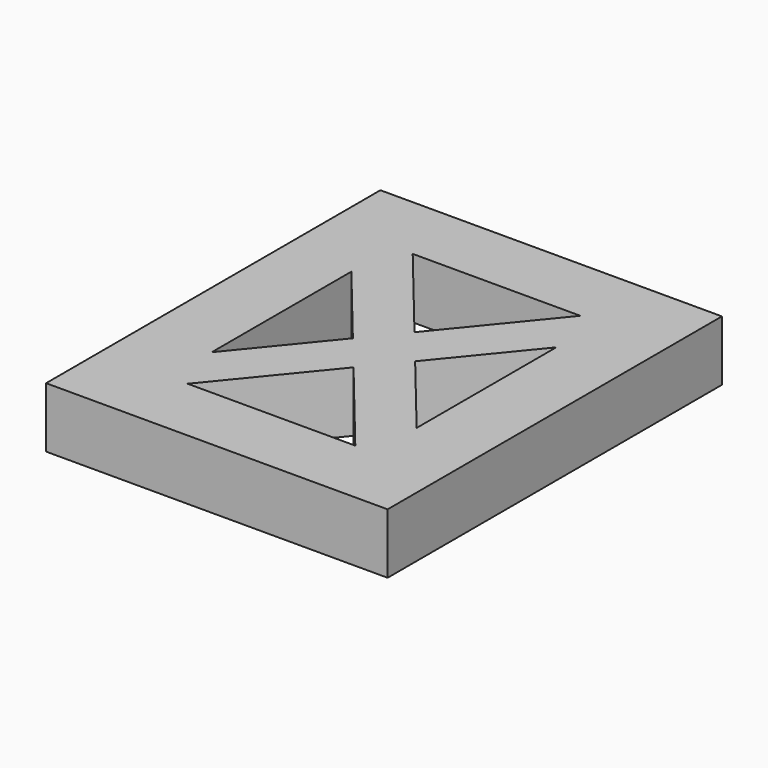
from build123d import *

# Parameters (mm, degrees)
F0_W     = 85
F0_H     = 104
F1_DEPTH = 15


with BuildPart() as f1:
    # F0 (on Top) → F1 (new body)
    with BuildSketch(Plane.XY):
        Rectangle(F0_W, F0_H)
        Polygon((0, -9.481185), (20.856724, -35), (-20.856724, -35), align=None, mode=Mode.SUBTRACT)
        Polygon((-25.5, 21.718815), (-7.749046, 0), (-25.5, -21.718815), align=None, mode=Mode.SUBTRACT)
        Polygon((3.874523, -4.740593), (0, -9.481185), (-3.874523, -4.740593), (-7.749046, 0), (-3.874523, 4.740593), (0, 9.481185), (3.874523, 4.740593), (7.749046, 0), align=None, mode=Mode.SUBTRACT)
        Polygon((20.856724, 35), (0, 9.481185), (-20.856724, 35), align=None, mode=Mode.SUBTRACT)
        Polygon((25.5, -21.718815), (7.749046, 0), (25.5, 21.718815), align=None, mode=Mode.SUBTRACT)
        Polygon((-3.874523, -4.740593), (0, -9.481185), (3.874523, -4.740593), (0, 0), align=None)
        Polygon((-3.874523, 4.740593), (0, 0), (3.874523, 4.740593), (0, 9.481185), align=None)
        Polygon((0, 0), (3.874523, -4.740593), (7.749046, 0), (3.874523, 4.740593), align=None)
        Polygon((-7.749046, 0), (-3.874523, -4.740593), (0, 0), (-3.874523, 4.740593), align=None)
    extrude(amount=F1_DEPTH)


solid = f1.part
